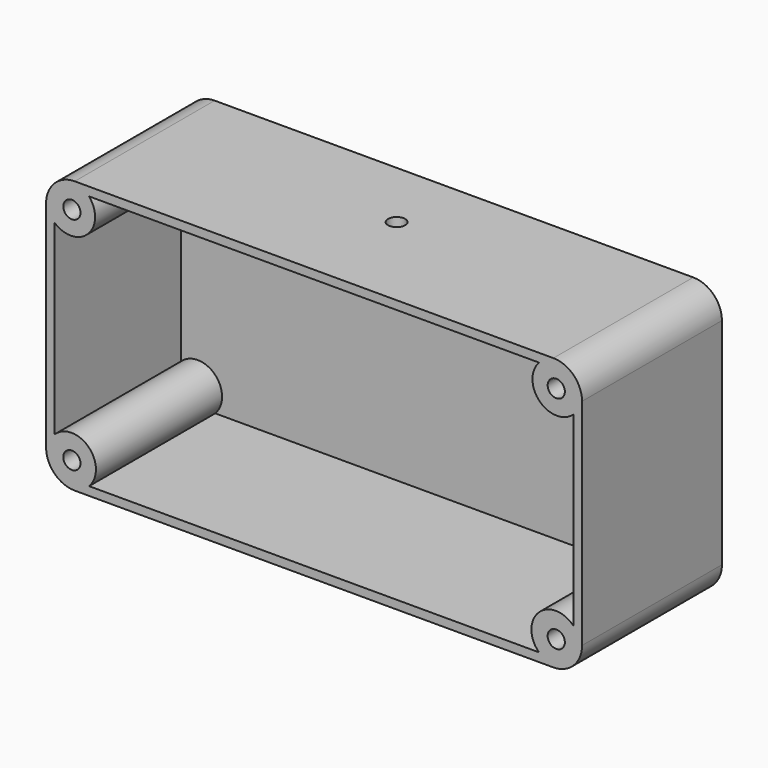
from build123d import *

# Parameters (mm, degrees)
F0_W     = 187
F0_H     = 95
F0_R     = 3
F1_DEPTH = 6
F2_W     = 187
F2_H     = 95
F2_R     = 3
F3_DEPTH = 55
F4_R     = 10
F5_R     = 5.5
F6_DEPTH = 10
F7_R     = 3
F8_DEPTH = 25


with BuildPart() as f1:
    # F0 (on Front) → F1 (new body)
    with BuildSketch(Plane.XZ):
        Rectangle(F0_W, F0_H)
        with Locations((-84.5, -38.5)):
            Circle(F0_R, mode=Mode.SUBTRACT)
        with Locations((84.5, -38.5)):
            Circle(F0_R, mode=Mode.SUBTRACT)
        with Locations((-84.5, 38.5)):
            Circle(F0_R, mode=Mode.SUBTRACT)
        with Locations((84.5, 38.5)):
            Circle(F0_R, mode=Mode.SUBTRACT)
    extrude(amount=F1_DEPTH)

    # F2 (on face) → F3 (join)
    with BuildSketch(Plane.XZ.offset(6)):
        Rectangle(F2_W, F2_H)
        with Locations((-84.5, -38.5)):
            Circle(F2_R, mode=Mode.SUBTRACT)
        with Locations((84.5, -38.5)):
            Circle(F2_R, mode=Mode.SUBTRACT)
        with BuildLine():
            ThreePointArc((78.479203, 44.5), (78.686333, 32.686563), (90.5, 32.492996))
            Line((90.5, 32.492996), (90.5, -32.487318))
            ThreePointArc((90.5, -32.487318), (78.324787, -32.32468), (78.479203, -44.5))
            Line((78.479203, -44.5), (-78.483447, -44.5))
            ThreePointArc((-78.483447, -44.5), (-78.593686, -32.593646), (-90.5, -32.479203))
            Line((-90.5, -32.479203), (-90.5, 32.479203))
            ThreePointArc((-90.5, 32.479203), (-78.867749, 32.866318), (-78.526316, 44.5))
            Line((-78.526316, 44.5), (78.479203, 44.5))
        make_face(mode=Mode.SUBTRACT)
        with Locations((-84.5, 38.5)):
            Circle(F2_R, mode=Mode.SUBTRACT)
        with Locations((84.5, 38.5)):
            Circle(F2_R, mode=Mode.SUBTRACT)
    extrude(amount=F3_DEPTH)

    # F4
    f4_edges = [f1.edges().sort_by_distance(p)[0] for p in [
        (-93.5, -30.5, -47.5),
        (-93.5, -30.5, 47.5),
        (93.5, -30.5, 47.5),
        (93.5, -30.5, -47.5),
    ]]
    fillet(f4_edges, radius=F4_R)

    # F5 (on face) → F6 (cut)
    with BuildSketch(Plane(origin=(0, 0, 0), x_dir=(-1, 0, 0), z_dir=(0, 1, 0))):
        with Locations((-84.5, 38.5)):
            Circle(F5_R)
        with Locations((-84.5, -38.5)):
            Circle(F5_R)
        with Locations((84.5, -38.5)):
            Circle(F5_R)
        with Locations((84.5, 38.5)):
            Circle(F5_R)
    extrude(amount=-F6_DEPTH, mode=Mode.SUBTRACT)

    # F7 (on face) → F8 (cut)
    with BuildSketch(Plane.XY.offset(47.5)):
        with Locations((0, -25)):
            Circle(F7_R)
    extrude(amount=-F8_DEPTH, mode=Mode.SUBTRACT)


solid = f1.part
